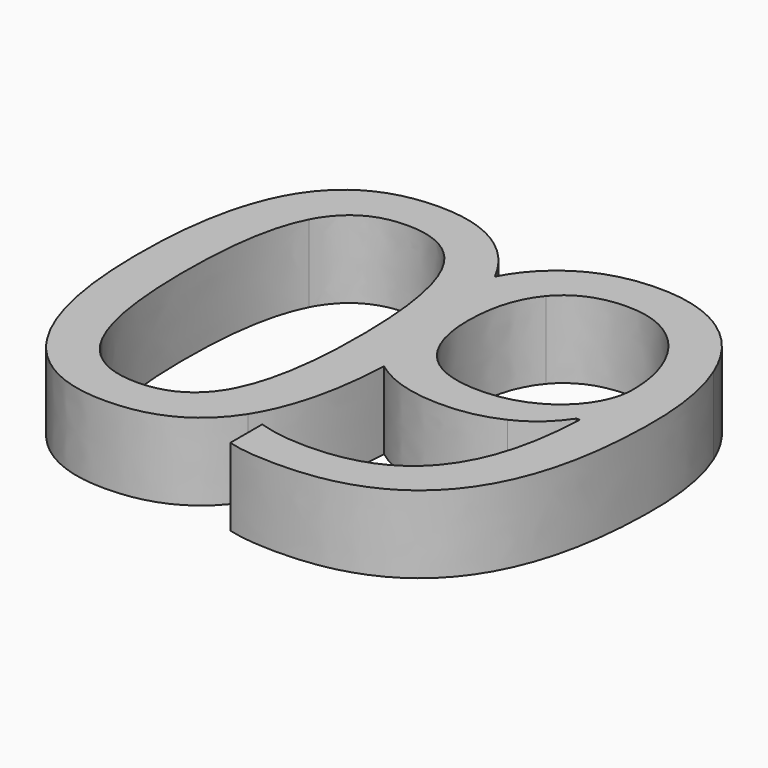
from build123d import *

# Parameters (mm, degrees)
F1_DEPTH = 6.6


with BuildPart() as f1:
    # F0 (on Top) → F1 (new body)
    with BuildSketch(Plane.XY):
        with BuildLine():
            add(Edge.make_bspline(
                [(-7.6317636007, 17.1954130546), (-5.2563737417, 12.6951079756), (-5.2563737417, 4.8747955678)],
                knots=[0.1005651291, 0.1005651291, 0.1005651291, 1, 1, 1], degree=2))
            add(Edge.make_bspline(
                [(-5.2563737417, 4.8747955678), (-5.2563737417, 3.6283314587), (-5.310699439, 2.4692102714)],
                knots=[0, 0, 0, 0.1382780595, 0.1382780595, 0.1382780595], degree=2))
            add(Edge.make_bspline(
                [(1.0645534445, 0.5464650409), (-2.7847625628, 0.5464650409), (-5.310699439, 2.4692102714)],
                knots=[0, 0, 0, 0.8350313684, 0.8350313684, 0.8350313684], degree=2))
            add(Edge.make_bspline(
                [(5.9367778777, 1.581004499), (3.7726126142, 0.5464650409), (1.0645534445, 0.5464650409)],
                knots=[0, 0, 0, 1, 1, 1], degree=2))
            add(Edge.make_bspline(
                [(9.4093312792, 4.5857330721), (8.1009431411, 2.6155439571), (5.9367778777, 1.581004499)],
                knots=[0, 0, 0, 1, 1, 1], degree=2))
            Line((9.4093312792, 4.5857330721), (9.6907868671, 4.5857330721))
            add(Edge.make_bspline(
                [(6.5187063228, -6.2388966989), (9.4321520026, -2.7092914889), (9.6907868671, 4.5857330721)],
                knots=[0, 0, 0, 1, 1, 1], degree=2))
            add(Edge.make_bspline(
                [(-2.0999201919, -9.7685019088), (3.6052606431, -9.7685019088), (6.5187063228, -6.2388966989)],
                knots=[0, 0, 0, 1, 1, 1], degree=2))
            add(Edge.make_bspline(
                [(-6.420643811, -9.1523423786), (-4.518916866, -9.7685019088), (-2.0999201919, -9.7685019088)],
                knots=[0, 0, 0, 1, 1, 1], degree=2))
            Line((-6.420643811, -9.1523423786), (-6.420643811, -12.5526301563))
            add(Edge.make_bspline(
                [(-2.0466718375, -13.0318653464), (-4.8079793616, -13.0318653464), (-6.420643811, -12.5526301563)],
                knots=[0, 0, 0, 1, 1, 1], degree=2))
            add(Edge.make_bspline(
                [(13.7376618061, 7.3698613196), (13.7376618061, -13.0318653464), (-2.0466718375, -13.0318653464)],
                knots=[0, 0, 0, 1, 1, 1], degree=2))
            add(Edge.make_bspline(
                [(12.3113665973, 15.5815182681), (13.7376618061, 12.1013579588), (13.7376618061, 7.3698613196)],
                knots=[0, 0, 0, 1, 1, 1], degree=2))
            add(Edge.make_bspline(
                [(8.2340640272, 20.8797295369), (10.8850713886, 19.0616785775), (12.3113665973, 15.5815182681)],
                knots=[0, 0, 0, 1, 1, 1], degree=2))
            add(Edge.make_bspline(
                [(2.0382376404, 22.6977804964), (5.5830566659, 22.6977804964), (8.2340640272, 20.8797295369)],
                knots=[0, 0, 0, 1, 1, 1], degree=2))
            add(Edge.make_bspline(
                [(-5.937605167, 19.5599310371), (-2.9062524166, 22.6977804964), (2.0382376404, 22.6977804964)],
                knots=[0, 0, 0, 1, 1, 1], degree=2))
            add(Edge.make_bspline(
                [(-7.6317636007, 17.1954130546), (-6.9556254387, 18.5061459378), (-5.937605167, 19.5599310371)],
                knots=[0.6641696445, 0.6641696445, 0.6641696445, 1, 1, 1], degree=2))
        make_face()
        with BuildLine():
            add(Edge.make_bspline(
                [(2.0382376404, 19.3279203498), (-1.3620501373, 19.3279203498), (-3.2143321817, 17.140934363)],
                knots=[0, 0, 0, 1, 1, 1], degree=2))
            add(Edge.make_bspline(
                [(6.0432745866, 18.1146185589), (4.2974892511, 19.3279203498), (2.0382376404, 19.3279203498)],
                knots=[0, 0, 0, 1, 1, 1], degree=2))
            add(Edge.make_bspline(
                [(8.7665475718, 14.7865964051), (7.7890599221, 16.901316768), (6.0432745866, 18.1146185589)],
                knots=[0, 0, 0, 1, 1, 1], degree=2))
            add(Edge.make_bspline(
                [(9.7440352216, 10.1768102904), (9.7440352216, 12.6718760423), (8.7665475718, 14.7865964051)],
                knots=[0, 0, 0, 1, 1, 1], degree=2))
            add(Edge.make_bspline(
                [(8.6980854018, 6.9895159306), (9.7440352216, 8.5108974866), (9.7440352216, 10.1768102904)],
                knots=[0, 0, 0, 1, 1, 1], degree=2))
            add(Edge.make_bspline(
                [(5.8340846226, 4.589536526), (7.652135582, 5.4681343746), (8.6980854018, 6.9895159306)],
                knots=[0, 0, 0, 1, 1, 1], degree=2))
            add(Edge.make_bspline(
                [(1.8480649459, 3.7109386774), (4.0160336632, 3.7109386774), (5.8340846226, 4.589536526)],
                knots=[0, 0, 0, 1, 1, 1], degree=2))
            add(Edge.make_bspline(
                [(-3.3550599756, 5.6697174308), (-1.6435057251, 3.7109386774), (1.8480649459, 3.7109386774)],
                knots=[0, 0, 0, 1, 1, 1], degree=2))
            add(Edge.make_bspline(
                [(-5.0666142262, 11.0516046851), (-5.0666142262, 7.6284961841), (-3.3550599756, 5.6697174308)],
                knots=[0, 0, 0, 1, 1, 1], degree=2))
            add(Edge.make_bspline(
                [(-3.2143321817, 17.140934363), (-5.0666142262, 14.9539483763), (-5.0666142262, 11.0516046851)],
                knots=[0, 0, 0, 1, 1, 1], degree=2))
        make_face(mode=Mode.SUBTRACT)
        with BuildLine():
            add(Edge.make_bspline(
                [(-5.2563737417, 4.8747955678), (-5.2563737417, 3.6283314587), (-5.310699439, 2.4692102714)],
                knots=[0, 0, 0, 0.1382780595, 0.1382780595, 0.1382780595], degree=2))
            add(Edge.make_bspline(
                [(-7.6317636007, 17.1954130546), (-5.2563737417, 12.6951079756), (-5.2563737417, 4.8747955678)],
                knots=[0.1005651291, 0.1005651291, 0.1005651291, 1, 1, 1], degree=2))
            add(Edge.make_bspline(
                [(-8.9689579173, 11.0059632385), (-8.9689579173, 14.6031846306), (-7.6317636007, 17.1954130546)],
                knots=[0, 0, 0, 0.6641696445, 0.6641696445, 0.6641696445], degree=2))
            add(Edge.make_bspline(
                [(-6.2570952937, 3.3039691112), (-8.9689579173, 6.0614731814), (-8.9689579173, 11.0059632385)],
                knots=[0, 0, 0, 1, 1, 1], degree=2))
            add(Edge.make_bspline(
                [(-5.310699439, 2.4692102714), (-5.8097230276, 2.849067438), (-6.2570952937, 3.3039691112)],
                knots=[0.8350313684, 0.8350313684, 0.8350313684, 1, 1, 1], degree=2))
        make_face()
        with BuildLine():
            add(Edge.make_bspline(
                [(-5.310699439, 2.4692102714), (-5.6492466064, -4.7542072585), (-8.0975537975, -8.585627749)],
                knots=[0.1382780595, 0.1382780595, 0.1382780595, 1, 1, 1], degree=2))
            add(Edge.make_bspline(
                [(-5.310699439, 2.4692102714), (-5.8097230276, 2.849067438), (-6.2570952937, 3.3039691112)],
                knots=[0.8350313684, 0.8350313684, 0.8350313684, 1, 1, 1], degree=2))
            add(Edge.make_bspline(
                [(-6.2570952937, 3.3039691112), (-8.9689579173, 6.0614731814), (-8.9689579173, 11.0059632385)],
                knots=[0, 0, 0, 1, 1, 1], degree=2))
            add(Edge.make_bspline(
                [(-8.9689579173, 11.0059632385), (-8.9689579173, 14.6031846306), (-7.6317636007, 17.1954130546)],
                knots=[0, 0, 0, 0.6641696445, 0.6641696445, 0.6641696445], degree=2))
            add(Edge.make_bspline(
                [(-8.1926401447, 18.1602600056), (-7.8973541349, 17.698588744), (-7.6317636007, 17.1954130546)],
                knots=[0, 0, 0, 0.1005651291, 0.1005651291, 0.1005651291], degree=2))
            add(Edge.make_bspline(
                [(-16.7884459362, 22.7510288508), (-11.1289065478, 22.7510288508), (-8.1926401447, 18.1602600056)],
                knots=[0, 0, 0, 1, 1, 1], degree=2))
            add(Edge.make_bspline(
                [(-25.4146793587, 18.3504327001), (-22.5849096646, 22.7510288508), (-16.7884459362, 22.7510288508)],
                knots=[0, 0, 0, 1, 1, 1], degree=2))
            add(Edge.make_bspline(
                [(-28.2444490529, 4.8747955678), (-28.2444490529, 13.9498365493), (-25.4146793587, 18.3504327001)],
                knots=[0, 0, 0, 1, 1, 1], degree=2))
            add(Edge.make_bspline(
                [(-25.3195930115, -8.4791310401), (-28.2444490529, -3.9263967337), (-28.2444490529, 4.8747955678)],
                knots=[0, 0, 0, 1, 1, 1], degree=2))
            add(Edge.make_bspline(
                [(-16.7884459362, -13.0318653464), (-22.3947369701, -13.0318653464), (-25.3195930115, -8.4791310401)],
                knots=[0, 0, 0, 1, 1, 1], degree=2))
            add(Edge.make_bspline(
                [(-8.0975537975, -8.585627749), (-10.9387338533, -13.0318653464), (-16.7884459362, -13.0318653464)],
                knots=[0, 0, 0, 1, 1, 1], degree=2))
        make_face()
        with BuildLine():
            add(Edge.make_bspline(
                [(-24.2508224684, 4.8747955678), (-24.2508224684, -2.7092914889), (-22.467002594, -6.1704345288)],
                knots=[0, 0, 0, 1, 1, 1], degree=2))
            add(Edge.make_bspline(
                [(-22.467002594, 15.8934014871), (-24.2508224684, 12.4588826244), (-24.2508224684, 4.8747955678)],
                knots=[0, 0, 0, 1, 1, 1], degree=2))
            add(Edge.make_bspline(
                [(-16.7884459362, 19.3279203498), (-20.6831827195, 19.3279203498), (-22.467002594, 15.8934014871)],
                knots=[0, 0, 0, 1, 1, 1], degree=2))
            add(Edge.make_bspline(
                [(-11.0718547395, 15.8439565865), (-12.8404607983, 19.3279203498), (-16.7884459362, 19.3279203498)],
                knots=[0, 0, 0, 1, 1, 1], degree=2))
            add(Edge.make_bspline(
                [(-9.3032486806, 4.8747955678), (-9.3032486806, 12.3599928233), (-11.0718547395, 15.8439565865)],
                knots=[0, 0, 0, 1, 1, 1], degree=2))
            add(Edge.make_bspline(
                [(-11.0718547395, -6.1247930822), (-9.3032486806, -2.6180085956), (-9.3032486806, 4.8747955678)],
                knots=[0, 0, 0, 1, 1, 1], degree=2))
            add(Edge.make_bspline(
                [(-16.7884459362, -9.6315775687), (-12.8404607983, -9.6315775687), (-11.0718547395, -6.1247930822)],
                knots=[0, 0, 0, 1, 1, 1], degree=2))
            add(Edge.make_bspline(
                [(-22.467002594, -6.1704345288), (-20.6831827195, -9.6315775687), (-16.7884459362, -9.6315775687)],
                knots=[0, 0, 0, 1, 1, 1], degree=2))
        make_face(mode=Mode.SUBTRACT)
    extrude(amount=F1_DEPTH)


solid = f1.part
